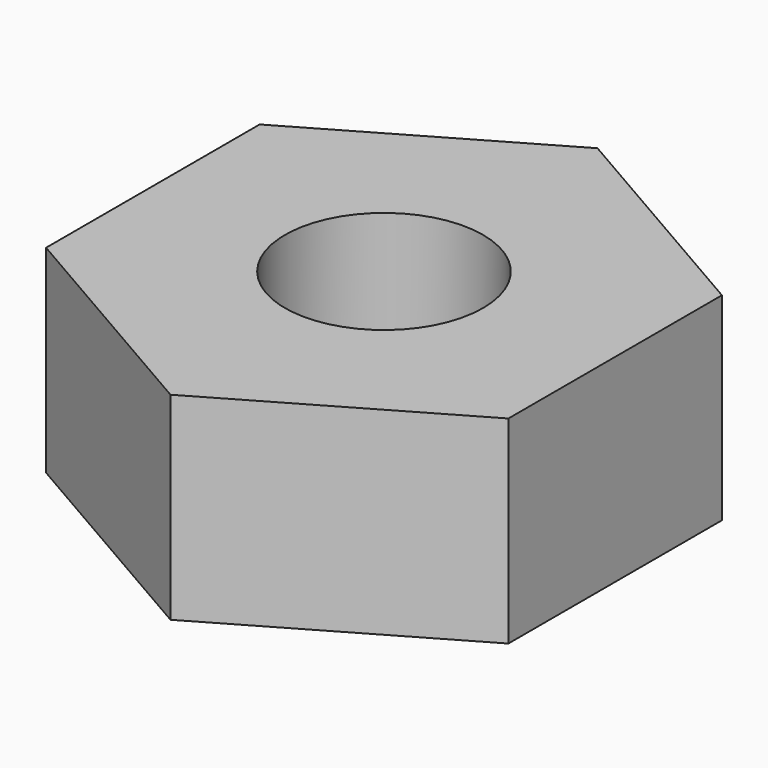
from build123d import *

# Parameters (mm, degrees)
F0_R     = 1.5
F1_DEPTH = 3


with BuildPart() as f1:
    # F0 (on Top) → F1 (new body)
    with BuildSketch(Plane.XY):
        Polygon((-3.5, 2.020726), (-3.5, -2.020726), (0, -4.041452), (3.5, -2.020726), (3.5, 2.020726), (0, 4.041452), align=None)
        Circle(F0_R, mode=Mode.SUBTRACT)
        Polygon((-3.5, 2.020726), (-3.5, -2.020726), (0, -4.041452), (3.5, -2.020726), (3.5, 2.020726), (0, 4.041452), align=None)
        Circle(F0_R, mode=Mode.SUBTRACT)
    extrude(amount=F1_DEPTH)


solid = f1.part
